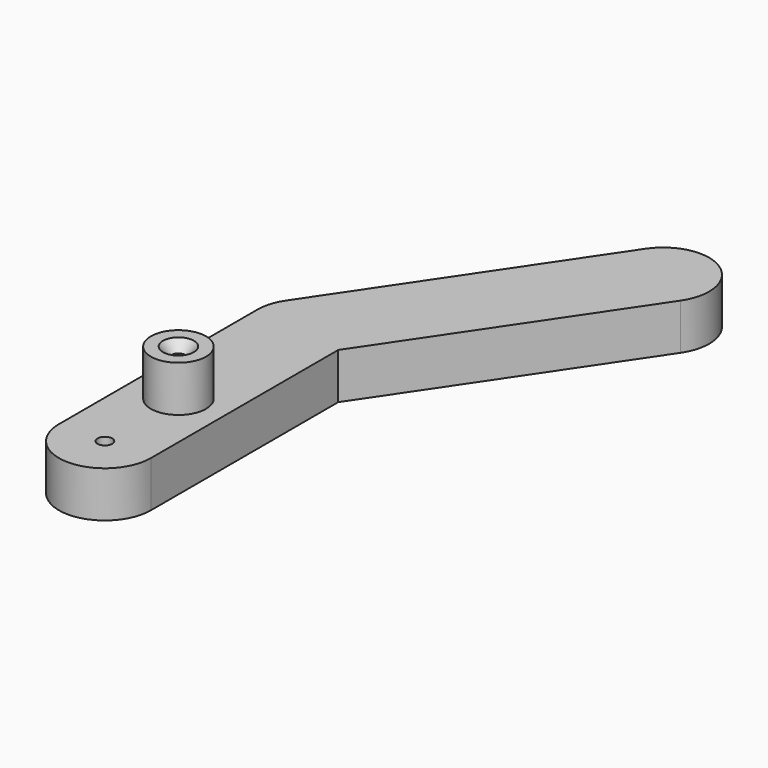
from build123d import *

# Parameters (mm, degrees)
F1_DEPTH       = 6.35
F2_R           = 3.81
F3_DEPTH       = 6.35
F5_D           = 1.9304
F5_CSINK_D     = 4.2672
F5_CSINK_ANGLE = 82
F6_D           = 2.032


with BuildPart() as f1:
    # F0 (on Top) → F1 (new body)
    with BuildSketch(Plane.XY):
        with BuildLine():
            ThreePointArc((6.35, 12.7), (4.4901280605, 8.2098719395), (0, 6.35))
            ThreePointArc((0, 6.35), (-4.4901280605, 8.2098719395), (-6.35, 12.7))
            Line((-6.35, 12.7), (-6.35, 0))
            ThreePointArc((-6.35, 0), (0, -6.35), (6.35, 0))
            Line((6.35, 0), (6.35, 12.7))
        make_face()
        with BuildLine():
            Line((0, 6.35), (0, 12.7))
            Line((0, 12.7), (0, 19.05))
            ThreePointArc((0, 19.05), (-4.4901280605, 17.1901280605), (-6.35, 12.7))
            ThreePointArc((-6.35, 12.7), (-4.4901280605, 8.2098719395), (0, 6.35))
        make_face()
        with BuildLine():
            Line((0, 19.05), (0, 12.7))
            Line((0, 12.7), (0, 6.35))
            ThreePointArc((0, 6.35), (4.4901280605, 8.2098719395), (6.35, 12.7))
            ThreePointArc((6.35, 12.7), (4.4901280605, 17.1901280605), (0, 19.05))
        make_face()
        with BuildLine():
            Line((0, 27.94), (0, 19.05))
            ThreePointArc((0, 19.05), (4.4901280605, 17.1901280605), (6.35, 12.7))
            Line((6.35, 12.7), (6.35, 32.3486101727))
            Line((6.35, 32.3486101727), (5.2643885857, 30.739125063))
            ThreePointArc((5.2643885857, 30.739125063), (2.9811444237, 28.6832827853), (0, 27.94))
        make_face()
        with BuildLine():
            ThreePointArc((-6.35, 12.7), (-4.4901280605, 17.1901280605), (0, 19.05))
            Line((0, 19.05), (0, 27.94))
            ThreePointArc((0, 27.94), (-4.4901280605, 29.7998719395), (-6.35, 34.29))
            Line((-6.35, 34.29), (-6.35, 12.7))
        make_face()
        with BuildLine():
            ThreePointArc((-6.35, 34.29), (-4.4901280605, 29.7998719395), (0, 27.94))
            Line((0, 27.94), (0, 34.29))
            Line((0, 34.29), (3.550874937, 39.5543885857))
            ThreePointArc((3.550874937, 39.5543885857), (-1.2116371206, 40.5233326149), (-5.2643885857, 37.840874937))
            ThreePointArc((-5.2643885857, 37.840874937), (-6.0725352004, 36.146560325), (-6.35, 34.29))
        make_face()
        with BuildLine():
            Line((6.35, 34.29), (6.35, 32.3486101727))
            Line((6.35, 32.3486101727), (27.9899881828, 64.4312120116))
            ThreePointArc((27.9899881828, 64.4312120116), (26.2764745341, 73.2464755344), (17.4612110113, 71.5329618857))
            Line((17.4612110113, 71.5329618857), (-5.2643885857, 37.840874937))
            ThreePointArc((-5.2643885857, 37.840874937), (-1.2116371206, 40.5233326149), (3.550874937, 39.5543885857))
            ThreePointArc((3.550874937, 39.5543885857), (5.6067172147, 37.2711444237), (6.35, 34.29))
        make_face()
        with BuildLine():
            Line((0, 34.29), (0, 27.94))
            ThreePointArc((0, 27.94), (2.9811444237, 28.6832827853), (5.2643885857, 30.739125063))
            Line((5.2643885857, 30.739125063), (6.35, 32.3486101727))
            Line((6.35, 32.3486101727), (6.35, 34.29))
            ThreePointArc((6.35, 34.29), (5.6067172147, 37.2711444237), (3.550874937, 39.5543885857))
            Line((3.550874937, 39.5543885857), (0, 34.29))
        make_face()
    extrude(amount=F1_DEPTH)

    # F2 (on face) → F3 (join)
    with BuildSketch(Plane.XY.offset(6.35)):
        with Locations((0, 12.7)):
            Circle(F2_R)
    extrude(amount=F3_DEPTH)

    # F5 (through all)
    with Locations(Plane.XY.offset(12.7)):
        with Locations((0, 12.7)):
            CounterSinkHole(F5_D / 2, F5_CSINK_D / 2, counter_sink_angle=F5_CSINK_ANGLE)

    # F6 (through all)
    with Locations(Plane(origin=(0, 0, 0), x_dir=(1, 0, 0), z_dir=(0, 0, -1))):
        with Locations((0, 0)):
            Hole(F6_D / 2)


solid = f1.part
